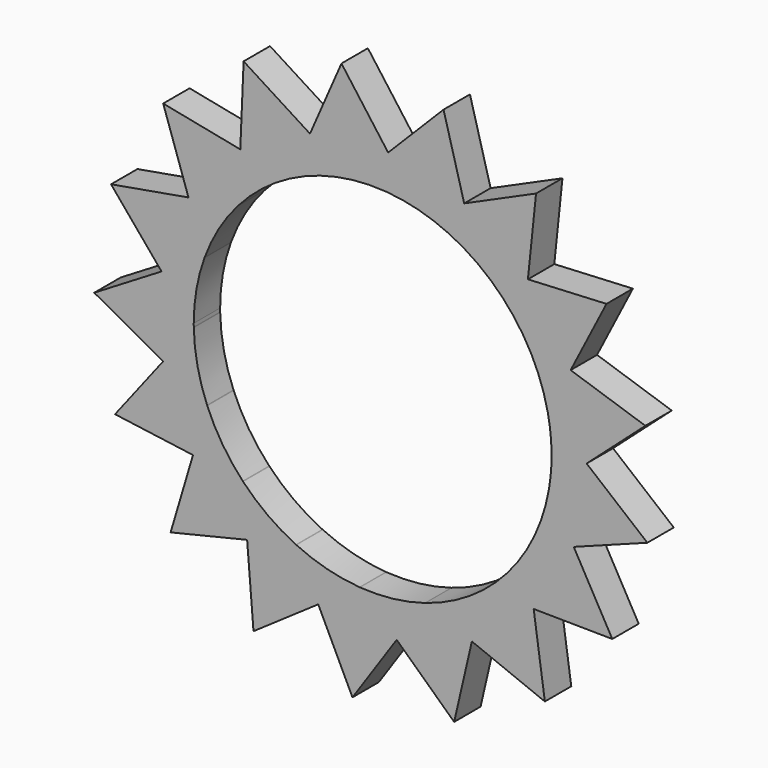
from build123d import *

# Parameters (mm, degrees)
F1_DEPTH = 6.35


with BuildPart() as f1:
    # F0 (on Front) → F1 (new body)
    with BuildSketch(Plane.XZ):
        with BuildLine():
            ThreePointArc((33.7049633841, 6.9645769632), (34.2385281064, 3.500440273), (34.417, 0))
            ThreePointArc((34.417, 0), (34.302515046, -2.8048797692), (33.9598218311, -5.5910991943))
            Line((33.9598218311, -5.5910991943), (41.1601353323, 0.8241980434))
            Line((41.1601353323, 0.8241980434), (33.7049633841, 6.9645769632))
        make_face()
        with BuildLine():
            ThreePointArc((33.6863287618, 7.0541578911), (33.6956758421, 7.0093736198), (33.7049633841, 6.9645769632))
            Line((33.7049633841, 6.9645769632), (41.1601353323, 0.8241980434))
            Line((41.1601353323, 0.8241980434), (52.4522360603, 10.8851742211))
            Line((52.4522360603, 10.8851742211), (38.0829484815, 15.6372976549))
            Line((38.0829484815, 15.6372976549), (33.6863287618, 7.0541578911))
        make_face()
        with BuildLine():
            Line((41.1601353323, 0.8241980434), (33.9598218311, -5.5910991943))
            ThreePointArc((33.9598218311, -5.5910991943), (33.9523597791, -5.6362358386), (33.9448377352, -5.6813625239))
            Line((33.9448377352, -5.6813625239), (38.6784178304, -14.1002140809))
            Line((38.6784178304, -14.1002140809), (52.8424319687, -8.7978104763))
            Line((52.8424319687, -8.7978104763), (41.1601353323, 0.8241980434))
        make_face()
        with BuildLine():
            ThreePointArc((28.9130469623, 18.6699117394), (31.8339739057, 13.0815899024), (33.6863287618, 7.0541578911))
            Line((33.6863287618, 7.0541578911), (38.0829484815, 15.6372976549))
            Line((38.0829484815, 15.6372976549), (28.9130469623, 18.6699117394))
        make_face()
        with BuildLine():
            Line((38.6784178304, -14.1002140809), (33.9448377352, -5.6813625239))
            ThreePointArc((33.9448377352, -5.6813625239), (32.338600716, -11.7789979509), (29.6468527842, -17.4812473522))
            Line((29.6468527842, -17.4812473522), (38.6784178304, -14.1002140809))
        make_face()
        with BuildLine():
            ThreePointArc((28.8633103308, 18.746711865), (28.8882041685, 18.7083283305), (28.9130469623, 18.6699117394))
            Line((28.9130469623, 18.6699117394), (38.0829484815, 15.6372976549))
            Line((38.0829484815, 15.6372976549), (44.978075024, 29.098055823))
            Line((44.978075024, 29.098055823), (29.8624484133, 28.3384935689))
            Line((29.8624484133, 28.3384935689), (28.8633103308, 18.746711865))
        make_face()
        with BuildLine():
            Line((38.6784178304, -14.1002140809), (29.6468527842, -17.4812473522))
            ThreePointArc((29.6468527842, -17.4812473522), (29.6235893914, -17.5206404154), (29.6002736554, -17.5600025206))
            Line((29.6002736554, -17.5600025206), (30.9729656759, -27.1203141617))
            Line((30.9729656759, -27.1203141617), (46.0959646298, -27.2926021184))
            Line((46.0959646298, -27.2926021184), (38.6784178304, -14.1002140809))
        make_face()
        with BuildLine():
            ThreePointArc((20.2162633355, 27.8537714816), (24.9586812859, 23.6979770755), (28.8633103308, 18.746711865))
            Line((28.8633103308, 18.746711865), (29.8624484133, 28.3384935689))
            Line((29.8624484133, 28.3384935689), (20.2162633355, 27.8537714816))
        make_face()
        with BuildLine():
            Line((30.9729656759, -27.1203141617), (29.6002736554, -17.5600025206))
            ThreePointArc((29.6002736554, -17.5600025206), (25.8997822597, -22.6656384843), (21.32991199, -27.0104561883))
            Line((21.32991199, -27.0104561883), (30.9729656759, -27.1203141617))
        make_face()
        with BuildLine():
            ThreePointArc((20.1421419025, 27.9074185223), (20.1792204468, 27.8806196337), (20.2162633355, 27.8537714816))
            Line((20.2162633355, 27.8537714816), (29.8624484133, 28.3384935689))
            Line((29.8624484133, 28.3384935689), (31.4293757236, 43.3810837482))
            Line((31.4293757236, 43.3810837482), (17.6088592133, 37.2124188974))
            Line((17.6088592133, 37.2124188974), (20.1421419025, 27.9074185223))
        make_face()
        with BuildLine():
            Line((30.9729656759, -27.1203141617), (21.32991199, -27.0104561883))
            ThreePointArc((21.32991199, -27.0104561883), (21.2939891065, -27.038785419), (21.2580285976, -27.0670668736))
            Line((21.2580285976, -27.0670668736), (19.0844428798, -36.477665536))
            Line((19.0844428798, -36.477665536), (33.123981841, -42.101376611))
            Line((33.123981841, -42.101376611), (30.9729656759, -27.1203141617))
        make_face()
        with BuildLine():
            ThreePointArc((-34.4108099912, -0.6527210357), (-34.415452463, -0.3263751931), (-34.417, 0))
            ThreePointArc((-34.417, 0), (-33.8973849094, 5.9579514354), (-32.354229549, 11.7360009923))
            Line((-32.354229549, 11.7360009923), (-40.6107518041, 6.7529905151))
            Line((-40.6107518041, 6.7529905151), (-34.4108099912, -0.6527210357))
        make_face()
        with BuildLine():
            ThreePointArc((8.789161323, 33.2758250422), (14.7125804577, 31.1138211295), (20.1421419025, 27.9074185223))
            Line((20.1421419025, 27.9074185223), (17.6088592133, 37.2124188974))
            Line((17.6088592133, 37.2124188974), (8.789161323, 33.2758250422))
        make_face()
        with BuildLine():
            Line((19.0844428798, -36.477665536), (21.2580285976, -27.0670668736))
            ThreePointArc((21.2580285976, -27.0670668736), (15.9630546935, -30.4911589457), (10.1322483884, -32.891753246))
            Line((10.1322483884, -32.891753246), (19.0844428798, -36.477665536))
        make_face()
        with BuildLine():
            Line((-40.6107518041, 6.7529905151), (-32.354229549, 11.7360009923))
            ThreePointArc((-32.354229549, 11.7360009923), (-32.338600716, 11.7789979509), (-32.3229147426, 11.8219740967))
            Line((-32.3229147426, 11.8219740967), (-35.4289367271, 20.9672717676))
            Line((-35.4289367271, 20.9672717676), (-50.3260957143, 18.3577824288))
            Line((-50.3260957143, 18.3577824288), (-40.6107518041, 6.7529905151))
        make_face()
        with BuildLine():
            ThreePointArc((-34.408953111, -0.7442007809), (-34.4099119513, -0.6984615254), (-34.4108099912, -0.6527210357))
            Line((-34.4108099912, -0.6527210357), (-40.6107518041, 6.7529905151))
            Line((-40.6107518041, 6.7529905151), (-53.55928258, -1.0617603602))
            Line((-53.55928258, -1.0617603602), (-40.307859818, -8.373319526))
            Line((-40.307859818, -8.373319526), (-34.408953111, -0.7442007809))
        make_face()
        with BuildLine():
            ThreePointArc((8.7006655989, 33.2990736679), (8.7449211868, 33.2874787636), (8.789161323, 33.2758250422))
            Line((8.789161323, 33.2758250422), (17.6088592133, 37.2124188974))
            Line((17.6088592133, 37.2124188974), (13.6359650756, 51.8052559303))
            Line((13.6359650756, 51.8052559303), (2.9770960026, 41.0606008527))
            Line((2.9770960026, 41.0606008527), (8.7006655989, 33.2990736678))
        make_face()
        with BuildLine():
            Line((19.0844428798, -36.477665536), (10.1322483884, -32.891753246))
            ThreePointArc((10.1322483884, -32.891753246), (10.0885175986, -32.9051926246), (10.0447689829, -32.9185738616))
            Line((10.0447689829, -32.9185738616), (4.6184603222, -40.90850605))
            Line((4.6184603222, -40.90850605), (15.6784217583, -51.2241269004))
            Line((15.6784217583, -51.2241269004), (19.0844428798, -36.477665536))
        make_face()
        with BuildLine():
            Line((-35.4289367271, 20.9672717676), (-32.3229147426, 11.8219740967))
            ThreePointArc((-32.3229147426, 11.8219740967), (-29.6235893914, 17.5206404154), (-25.9298880054, 22.6311908))
            Line((-25.9298880054, 22.6311908), (-35.4289367271, 20.9672717676))
        make_face()
        with BuildLine():
            ThreePointArc((-31.8513346736, -13.0392625754), (-33.6956758421, -7.0093736198), (-34.408953111, -0.7442007809))
            Line((-34.408953111, -0.7442007809), (-40.307859818, -8.373319526))
            Line((-40.307859818, -8.373319526), (-31.8513346736, -13.0392625754))
        make_face()
        with BuildLine():
            ThreePointArc((-3.8249656285, 34.2037940431), (2.4794641134, 34.3275712323), (8.7006655989, 33.2990736679))
            Line((8.7006655989, 33.2990736678), (2.9770960026, 41.0606008527))
            Line((2.9770960026, 41.0606008527), (-3.8249656285, 34.2037940431))
        make_face()
        with BuildLine():
            Line((4.6184603222, -40.90850605), (10.0447689829, -32.9185738616))
            ThreePointArc((10.0447689829, -32.9185738616), (3.8704281367, -34.1986794341), (-2.4338315028, -34.3308367684))
            Line((-2.4338315028, -34.3308367684), (4.6184603222, -40.90850605))
        make_face()
        with BuildLine():
            ThreePointArc((-31.8165568888, -13.1238941149), (-31.8339739057, -13.0815899024), (-31.8513346736, -13.0392625754))
            Line((-31.8513346736, -13.0392625754), (-40.307859818, -8.373319526))
            Line((-40.307859818, -8.373319526), (-49.558991551, -20.3379065292))
            Line((-49.558991551, -20.3379065292), (-34.5611680099, -22.368766367))
            Line((-34.5611680099, -22.368766367), (-31.8165568888, -13.1238941149))
        make_face()
        with BuildLine():
            ThreePointArc((-24.990160114, -23.6647794512), (-28.8882041685, -18.7083283305), (-31.8165568888, -13.1238941149))
            Line((-31.8165568888, -13.1238941149), (-34.5611680099, -22.368766367))
            Line((-34.5611680099, -22.368766367), (-24.990160114, -23.6647794512))
        make_face()
        with BuildLine():
            Line((-35.4289367271, 20.9672717676), (-25.9298880054, 22.6311908))
            ThreePointArc((-25.9298880054, 22.6311908), (-25.8997822597, 22.6656384843), (-25.8696307505, 22.7000461196))
            Line((-25.8696307505, 22.7000461196), (-25.4622474266, 32.3498067842))
            Line((-25.4622474266, 32.3498067842), (-40.2960907558, 35.2980049768))
            Line((-40.2960907558, 35.2980049768), (-35.4289367271, 20.9672717676))
        make_face()
        with BuildLine():
            ThreePointArc((-3.915883806, 34.193504398), (-3.8704281367, 34.1986794341), (-3.8249656285, 34.2037940431))
            Line((-3.8249656285, 34.2037940431), (2.9770960026, 41.0606008527))
            Line((2.9770960026, 41.0606008527), (-5.9990582154, 53.2328412361))
            Line((-5.9990582154, 53.2328412361), (-12.05674052, 39.3633211381))
            Line((-12.05674052, 39.3633211381), (-3.915883806, 34.193504398))
        make_face()
        with BuildLine():
            Line((4.6184603222, -40.90850605), (-2.4338315028, -34.3308367684))
            ThreePointArc((-2.4338315028, -34.3308367684), (-2.4794641134, -34.3275712323), (-2.5250923429, -34.3242450414))
            Line((-2.5250923429, -34.3242450414), (-10.4712708936, -39.8144261401))
            Line((-10.4712708936, -39.8144261401), (-3.88459606, -53.4287750093))
            Line((-3.88459606, -53.4287750093), (4.6184603222, -40.90850605))
        make_face()
        with BuildLine():
            Line((-25.4622474266, 32.3498067842), (-25.8696307505, 22.7000461196))
            ThreePointArc((-25.8696307505, 22.7000461196), (-21.2939891065, 27.038785419), (-16.0035714042, 30.4699128865))
            Line((-16.0035714042, 30.4699128865), (-25.4622474266, 32.3498067842))
        make_face()
        with BuildLine():
            ThreePointArc((-24.9271583572, -23.7311328267), (-24.9586812859, -23.6979770755), (-24.990160114, -23.6647794512))
            Line((-24.990160114, -23.6647794512), (-34.5611680099, -22.368766367))
            Line((-34.5611680099, -22.368766367), (-38.8654840973, -36.8673057251))
            Line((-38.8654840973, -36.8673057251), (-24.146798952, -33.3431873606))
            Line((-24.146798952, -33.3431873606), (-24.9271583572, -23.7311328267))
        make_face()
        with BuildLine():
            ThreePointArc((-14.7539259558, -31.0942367311), (-20.1792204468, -27.8806196337), (-24.9271583572, -23.7311328267))
            Line((-24.9271583572, -23.7311328267), (-24.146798952, -33.3431873606))
            Line((-24.146798952, -33.3431873606), (-14.7539259558, -31.0942367311))
        make_face()
        with BuildLine():
            ThreePointArc((-15.922509777, 30.5123511287), (-10.0885175986, 32.9051926246), (-3.915883806, 34.193504398))
            Line((-3.915883806, 34.193504398), (-12.05674052, 39.3633211381))
            Line((-12.05674052, 39.3633211381), (-15.922509777, 30.5123511287))
        make_face()
        with BuildLine():
            Line((-10.4712708936, -39.8144261401), (-2.5250923429, -34.3242450414))
            ThreePointArc((-2.5250923429, -34.3242450414), (-8.7449211868, -33.2874787636), (-14.6712089632, -31.1333505514))
            Line((-14.6712089632, -31.1333505514), (-10.4712708936, -39.8144261401))
        make_face()
        with BuildLine():
            Line((-25.4622474266, 32.3498067842), (-16.0035714042, 30.4699128865))
            ThreePointArc((-16.0035714042, 30.4699128865), (-15.9630546935, 30.4911589457), (-15.922509777, 30.5123511287))
            Line((-15.922509777, 30.5123511287), (-12.05674052, 39.3633211381))
            Line((-12.05674052, 39.3633211381), (-24.8238754524, 47.4710363597))
            Line((-24.8238754524, 47.4710363597), (-25.4622474266, 32.3498067842))
        make_face()
        with BuildLine():
            ThreePointArc((-14.6712089632, -31.1333505514), (-14.7125804577, -31.1138211295), (-14.7539259558, -31.0942367311))
            Line((-14.7539259558, -31.0942367311), (-24.146798952, -33.3431873606))
            Line((-24.146798952, -33.3431873606), (-22.9229776551, -48.4175709941))
            Line((-22.9229776551, -48.4175709941), (-10.4712708936, -39.8144261401))
            Line((-10.4712708936, -39.8144261401), (-14.6712089632, -31.1333505514))
        make_face()
    extrude(amount=F1_DEPTH)


solid = f1.part
